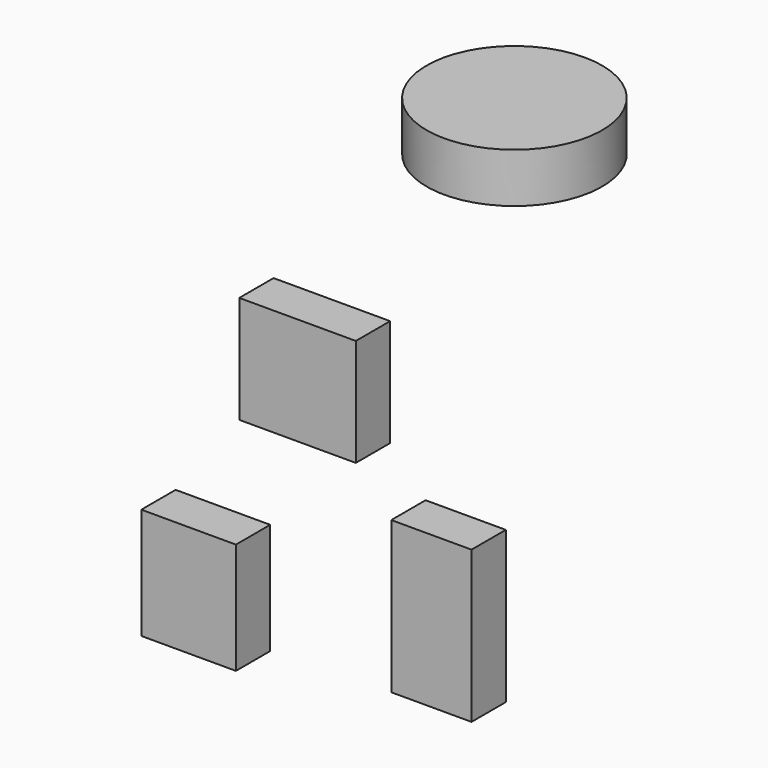
from build123d import *

# Parameters (mm, degrees)
F0_W     = 69.008611
F0_H     = 63.589357
F0_W_2   = 56.006998
F0_H_2   = 65.842398
F0_W_3   = 47.505938
F0_H_3   = 89.799113
F1_DEPTH = 25.4
F2_W     = 51.951184
F2_H     = 29.379919


with BuildPart() as f1:
    # F0 (on Front) → F1 (new body)
    with BuildSketch(Plane.XZ):
        with Locations((-13.501678, 68.861436)):
            Rectangle(F0_W, F0_H)
        with Locations((-78.009732, -61.52438)):
            Rectangle(F0_W_2, F0_H_2)
        with Locations((65.758232, -30.77348)):
            Rectangle(F0_W_3, F0_H_3)
    extrude(amount=F1_DEPTH)


with BuildPart() as f3:
    # F2 (on Right) → F3 (revolve)
    with BuildSketch(Plane.YZ):
        with Locations((144.21352, 147.461318)):
            Rectangle(F2_W, F2_H)
    revolve(axis=Axis((0, 118.237928, 147.461317), (0, 0, -1)))


solid = Compound([f1.part, f3.part])
